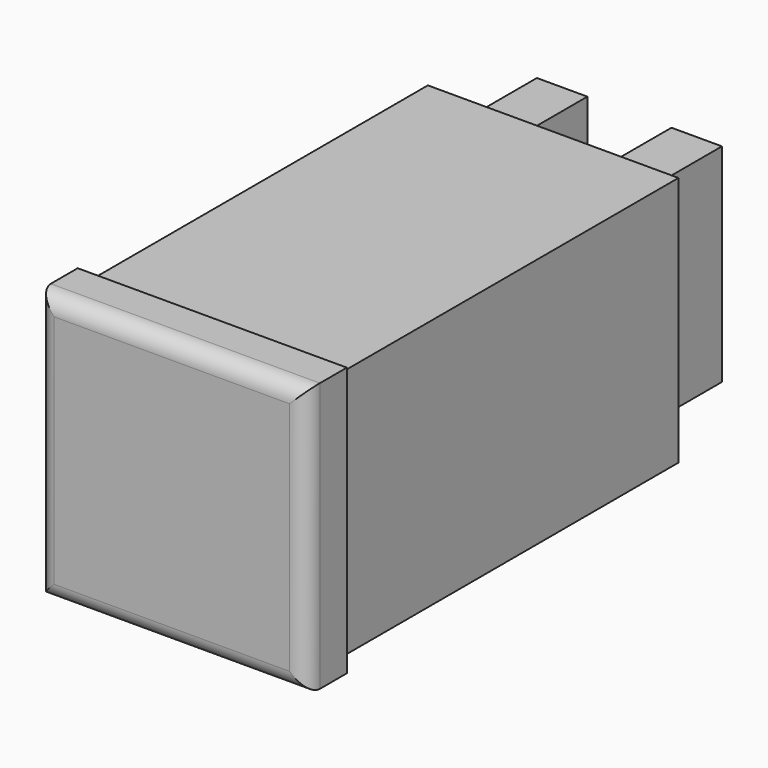
from build123d import *

# Parameters (mm, degrees)
F0_W     = 44.7
F0_H     = 44.7
F0_W_2   = 40.7
F0_H_2   = 40.7
F1_DEPTH = 73
F2_W     = 44.7
F2_H     = 44.7
F2_W_2   = 40.7
F2_H_2   = 40.7
F2_W_3   = 9
F2_H_3   = 37
F3_DEPTH = 3
F4_DEPTH = 20
F0_W_3   = 48
F0_H_3   = 48
F5_DEPTH = 9
F6_R     = 3


with BuildPart() as f1:
    # F0 (on Front) → F1 (new body)
    with BuildSketch(Plane.XZ):
        Rectangle(F0_W, F0_H)
        Rectangle(F0_W_2, F0_H_2, mode=Mode.SUBTRACT)
    extrude(amount=-F1_DEPTH)

    # F2 (on face) → F3 (join)
    with BuildSketch(Plane(origin=(0, 73, 0), x_dir=(-1, 0, 0), z_dir=(0, 1, 0))):
        Rectangle(F2_W, F2_H)
        Rectangle(F2_W_2, F2_H_2, mode=Mode.SUBTRACT)
        Rectangle(F2_W_2, F2_H_2)
        with Locations((-12, 0)):
            Rectangle(F2_W_3, F2_H_3, mode=Mode.SUBTRACT)
        with Locations((12, 0)):
            Rectangle(F2_W_3, F2_H_3, mode=Mode.SUBTRACT)
    extrude(amount=F3_DEPTH)

    # F2 (on face) → F4 (join)
    with BuildSketch(Plane(origin=(0, 73, 0), x_dir=(-1, 0, 0), z_dir=(0, 1, 0))):
        with Locations((-12, 0)):
            Rectangle(F2_W_3, F2_H_3)
        with Locations((12, 0)):
            Rectangle(F2_W_3, F2_H_3)
    extrude(amount=F4_DEPTH)

    # F0 (on Front) → F5 (join)
    with BuildSketch(Plane.XZ):
        Rectangle(F0_W_3, F0_H_3)
        Rectangle(F0_W, F0_H, mode=Mode.SUBTRACT)
        Rectangle(F0_W, F0_H)
        Rectangle(F0_W_2, F0_H_2, mode=Mode.SUBTRACT)
        Rectangle(F0_W_2, F0_H_2)
    extrude(amount=F5_DEPTH)

    # F6
    f6_edges = [f1.edges().sort_by_distance(p)[0] for p in [
        (24, -9, 0),
        (0, -9, 24),
        (-24, -9, 0),
        (0, -9, -24),
    ]]
    fillet(f6_edges, radius=F6_R)


solid = f1.part
